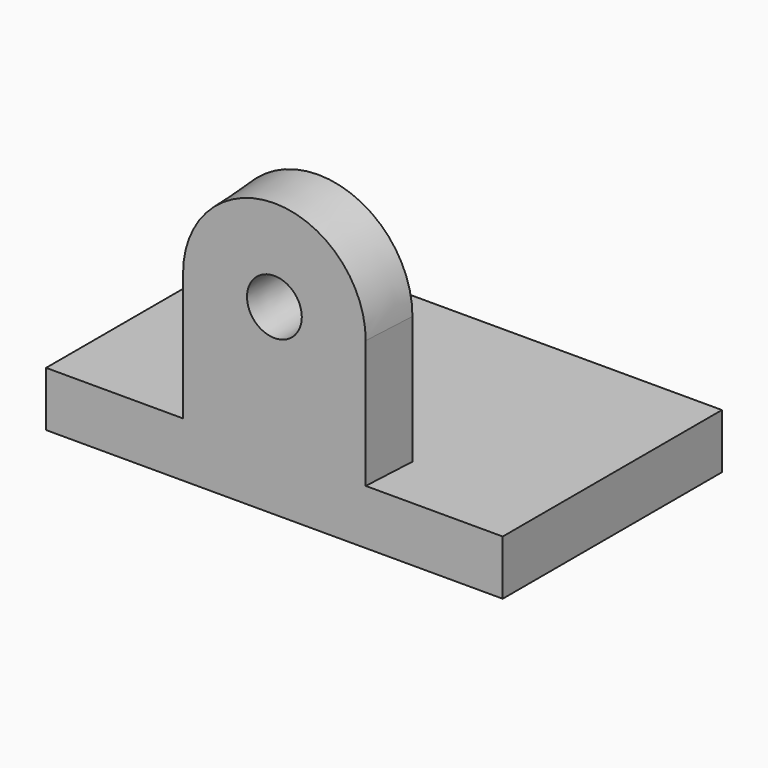
from build123d import *

# Parameters (mm, degrees)
F0_W     = 125
F0_H     = 75
F1_DEPTH = 15
F3_DEPTH = 15
F3_TAPER = -3


with BuildPart() as f1:
    # F0 (on Top) → F1 (new body)
    with BuildSketch(Plane.XY):
        Rectangle(F0_W, F0_H)
    extrude(amount=F1_DEPTH)

    # F2 (on face) → F3 (join)
    with BuildSketch(Plane.XZ.offset(37.5)):
        with BuildLine():
            Line((7.5, 50), (25, 50))
            ThreePointArc((25, 50), (0, 75), (-25, 50))
            Line((-25, 50), (-7.5, 50))
            ThreePointArc((-7.5, 50), (0, 57.5), (7.5, 50))
        make_face()
        with BuildLine():
            ThreePointArc((-25, 50), (0, 25), (25, 50))
            Line((25, 50), (7.5, 50))
            ThreePointArc((7.5, 50), (0, 42.5), (-7.5, 50))
            Line((-7.5, 50), (-25, 50))
        make_face()
        with BuildLine():
            Line((25, 15), (25, 50))
            ThreePointArc((25, 50), (0, 25), (-25, 50))
            Line((-25, 50), (-25, 15))
            Line((-25, 15), (25, 15))
        make_face()
    extrude(amount=-F3_DEPTH, taper=F3_TAPER)


solid = f1.part
